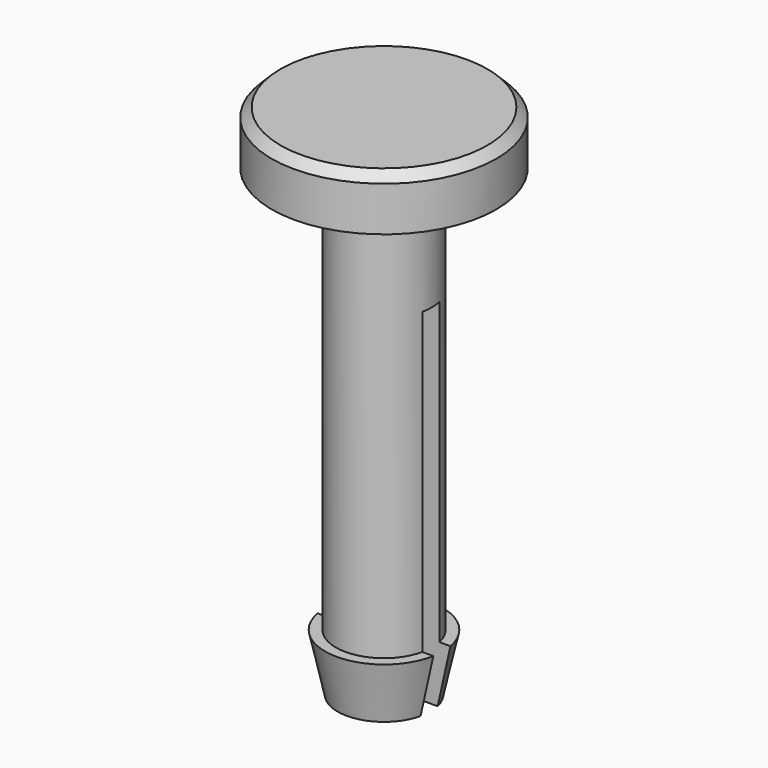
from build123d import *

# Parameters (mm, degrees)
CHAMFER_SIZE = 0.25
SKETCH016_W  = 3.3
SKETCH016_H  = 0.6
POCKET_DEPTH = 10


with BuildPart() as part:
    # Sketch → Revolution (revolve)
    with BuildSketch(Plane.XZ):
        Polygon((-1.35, 1.6), (-1.35, 13), (-3.15, 13), (-3.15, 14.5), (0, 14.5), (0, 0), (-1.3, 0), (-1.65, 1.6), align=None)
    revolve(axis=Axis((0, 0, 0), (0, 0, 1)))

    # Chamfer
    chamfer_edges = [part.edges().sort_by_distance(p)[0] for p in [
        (3.15, 0, 14.5),
    ]]
    chamfer(chamfer_edges, length=CHAMFER_SIZE)

    # Sketch016 (on Face8 of Chamfer) → Pocket (cut)
    with BuildSketch(Plane(origin=(0, 0, 0), x_dir=(1, 0, 0), z_dir=(0, 0, -1))):
        Rectangle(SKETCH016_W, SKETCH016_H)
    extrude(amount=-POCKET_DEPTH, mode=Mode.SUBTRACT)


with BuildPart() as part_1:
    # Body placement: moved
    add(part.part.moved(Location((-22.7, 0.7, -1.6))))


solid = part_1.part
